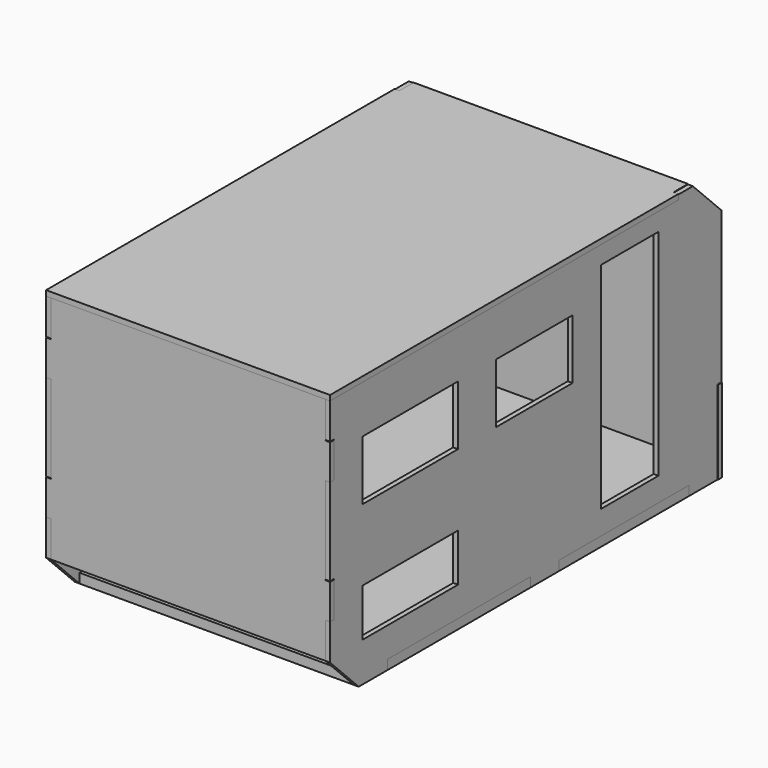
from build123d import *

# Parameters (mm, degrees)
F1_DEPTH  = 40
F3_DEPTH  = 40
F6_DEPTH  = 40
F8_DEPTH  = 44
F10_DEPTH = 2300
F12_DEPTH = 80
F13_W     = 1000
F13_H     = 500
F13_W_2   = 800
F13_W_3   = 600
F13_H_2   = 1800
F13_H_3   = 400
F14_DEPTH = 40


with BuildPart() as f1:
    # F0 (on Front) → F1 (new body)
    with BuildSketch(Plane.XZ):
        Polygon((1875.1689910889, -88.3379688097), (2175.1689910889, -88.3379688097), (2175.1689910889, 611.6620311903), (2131.1689910889, 611.6620311903), (2131.1689910889, 1871.6620311903), (-168.8310089111, 1871.6620311903), (-168.8310089111, 611.6620311903), (-212.8310089111, 611.6620311903), (-212.8310089111, -88.3379688097), (87.1689910889, -88.3379688097), (87.1689910889, -8.3379688097), (1875.1689910889, -8.3379688097), align=None)
    extrude(amount=F1_DEPTH)


with BuildPart() as f3:
    # F2 (on face) → F3 (new body)
    with BuildSketch(Plane.YZ.offset(2131.1689910889)):
        Polygon((-340, -88.3379688097), (-40, -88.3379688097), (-40, 613.6620311903), (0, 613.6620311903), (0, 1881.6620311903), (-300, 2181.6620311903), (-450, 2181.6620311903), (-450, 2141.6620311903), (-4100, 2141.6620311903), (-4100, 1841.6620311903), (-4060, 1841.6620311903), (-4060, 1541.6620311903), (-4100, 1541.6620311903), (-4100, 811.6620311903), (-4060, 811.6620311903), (-4060, 511.6620311903), (-4100, 511.6620311903), (-4100, 211.6620311903), (-3800, -88.3379688097), (-3500, -88.3379688097), (-3500, -8.3379688097), (-2000, -8.3379688097), (-2000, -88.3379688097), (-1700, -88.3379688097), (-1700, -8.3379688097), (-340, -8.3379688097), align=None)
    extrude(amount=F3_DEPTH)


with BuildPart() as f4_1:
    # F4: copy of F3
    add(f3.part.moved(Location((-2340, 0, 0))))


with BuildPart() as f6:
    # F5 (on face) → F6 (new body)
    with BuildSketch(Plane.XZ.offset(4060)):
        Polygon((2171.1689910889, 1541.6620311903), (2171.1689910889, 1836.6620311903), (2131.1689910889, 1836.6620311903), (2131.1689910889, 2141.6620311903), (-168.8310089111, 2141.6620311903), (-168.8310089111, 1836.6620311903), (-208.8310089111, 1836.6620311903), (-208.8310089111, 1541.6620311903), (-168.8310089111, 1541.6620311903), (-168.8310089111, 806.6620311903), (-208.8310089111, 806.6620311903), (-208.8310089111, 511.6620311903), (-168.8310089111, 511.6620311903), (-168.8310089111, 211.6620311903), (2131.1689910889, 211.6620311903), (2131.1689910889, 511.6620311903), (2171.1689910889, 511.6620311903), (2171.1689910889, 806.6620311903), (2131.1689910889, 806.6620311903), (2131.1689910889, 1541.6620311903), align=None)
    extrude(amount=F6_DEPTH)


with BuildPart() as f8:
    # F7 (on face) → F8 (new body)
    with BuildSketch(Plane.XY.offset(2141.6620311903)):
        Polygon((-208.8310089111, -450), (-208.8310089111, -4100), (2171.1689910889, -4100), (2171.1689910889, -450), (2131.1689910889, -450), (2131.1689910889, -300), (-168.8310089111, -300), (-168.8310089111, -450), align=None)
    extrude(amount=F8_DEPTH)


with BuildPart() as f10:
    # F9 (on face) → F10 (new body, through all)
    with BuildSketch(Plane(origin=(2131.1689910889, 0, 0), x_dir=(0, -1, 0), z_dir=(-1, 0, 0))):
        Polygon((300, 2141.6620311903), (300, 2181.6620311903), (0, 1871.6620311903), (38.7096774194, 1871.6620311903), align=None)
    extrude(amount=F10_DEPTH)


with BuildPart() as f12:
    # F11 (on face) → F12 (new body)
    with BuildSketch(Plane(origin=(0, 0, -8.3379688097), x_dir=(1, 0, 0), z_dir=(0, 0, -1))):
        Polygon((2131.1689910889, 3500), (2131.1689910889, 3800), (-168.8310089111, 3800), (-168.8310089111, 3500), (-208.8310089111, 3500), (-208.8310089111, 2000), (-168.8310089111, 2000), (-168.8310089111, 1700), (-208.8310089111, 1700), (-208.8310089111, 340), (-168.8310089111, 340), (-168.8310089111, 40), (87.1689910889, 40), (87.1689910889, 0), (1875.1689910889, 0), (1875.1689910889, 40), (2131.1689910889, 40), (2131.1689910889, 340), (2171.1689910889, 340), (2171.1689910889, 1700), (2131.1689910889, 1700), (2131.1689910889, 2000), (2171.1689910889, 2000), (2171.1689910889, 3500), align=None)
    extrude(amount=F12_DEPTH)


with BuildPart() as f3_1:
    add(f3.part)

    # F13 (on face) → F14 (cut, through all)
    with BuildSketch(Plane.YZ.offset(2171.1689910889)):
        with Locations((-3260, 1491.6620311903)):
            Rectangle(F13_W, F13_H)
        with Locations((-1960, 1491.6620311903)):
            Rectangle(F13_W_2, F13_H)
        with Locations((-960, 1091.6620311903)):
            Rectangle(F13_W_3, F13_H_2)
        with Locations((-3260, 441.6620311903)):
            Rectangle(F13_W, F13_H_3)
    extrude(amount=-F14_DEPTH, mode=Mode.SUBTRACT)


solid = Compound([f1.part, f4_1.part, f6.part, f8.part, f10.part, f12.part, f3_1.part])
